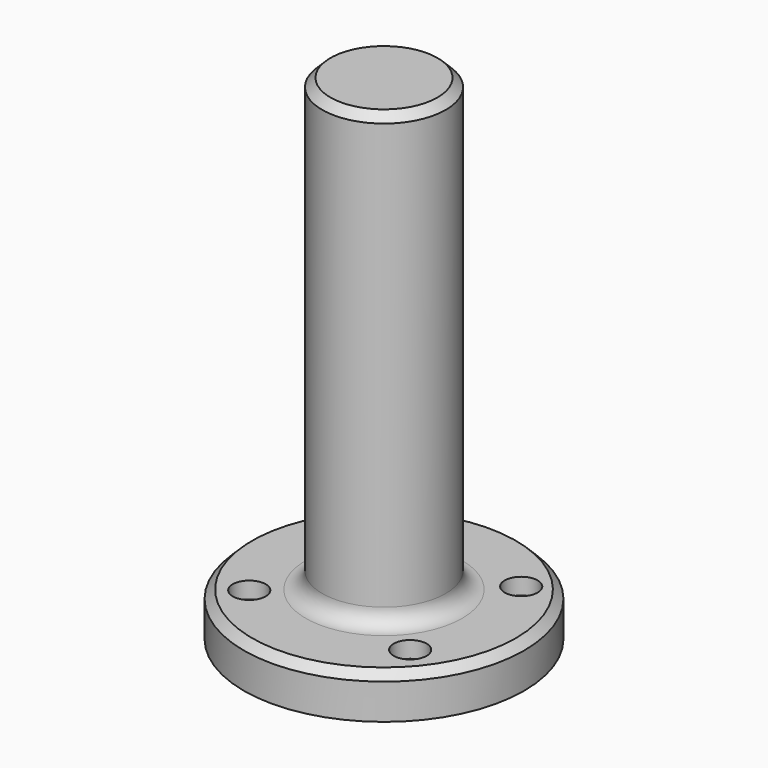
from build123d import *

# Parameters (mm, degrees)
F0_W     = 43.2214178145
F0_H     = 13.4684350342
F2_R     = 19.05
F3_DEPTH = 152.4
F4_R     = 5.08
F5_DEPTH = 5.08
F6_R     = 2.3709627479
F7_DEPTH = 25.4
F8_SIZE  = 2.54
F9_R     = 5.08
F10_D    = 6.6


with BuildPart() as f1:
    # F0 (on Front) → F1 (revolve)
    with BuildSketch(Plane.XZ):
        with Locations((21.6107089072, 6.7342175171)):
            Rectangle(F0_W, F0_H)
    revolve(axis=Axis((0, 0, 6.7342175171), (0, 0, 1)))

    # F2 (on face) → F3 (join)
    with BuildSketch(Plane(origin=(0, 0, 0), x_dir=(1, 0, 0), z_dir=(0, 0, -1))):
        Circle(F2_R)
    extrude(amount=-F3_DEPTH)

    # F4 (on face) → F5 (cut)
    with BuildSketch(Plane.XY.offset(13.4684350342)):
        with Locations((-24.6729586924, 21.0248965081)):
            Circle(F4_R)
        with Locations((24.8374585062, 21.8454711139)):
            Circle(F4_R)
        with Locations((-25.066871196, -20.6134561449)):
            Circle(F4_R)
        with Locations((24.5745163411, -20.6259563565)):
            Circle(F4_R)
    extrude(amount=-F5_DEPTH, mode=Mode.SUBTRACT)

    # F6 (on face) → F7 (cut)
    with BuildSketch(Plane.XY.offset(13.4684350342)):
        with Locations((-25.066871196, -20.6134561449)):
            Circle(F6_R)
        with Locations((24.4725923985, -20.7640305161)):
            Circle(F6_R)
        with Locations((24.4725923985, 21.6897111386)):
            Circle(F6_R)
        with Locations((-24.7867107391, 21.3656388223)):
            Circle(F6_R)
    extrude(amount=-F7_DEPTH, mode=Mode.SUBTRACT)

    # F8
    f8_edges = [f1.edges().sort_by_distance(p)[0] for p in [
        (-19.05, 0, 152.4),
        (-43.221418, 0, 13.468435),
    ]]
    chamfer(f8_edges, length=F8_SIZE)

    # F9
    f9_edges = [f1.edges().sort_by_distance(p)[0] for p in [
        (-19.05, 0, 13.468435),
    ]]
    fillet(f9_edges, radius=F9_R)

    # F10 (through all)
    with Locations(Plane.XY.offset(13.4684350342)):
        with Locations((24.4725923985, -20.7640305161)):
            Hole(F10_D / 2)


solid = f1.part
